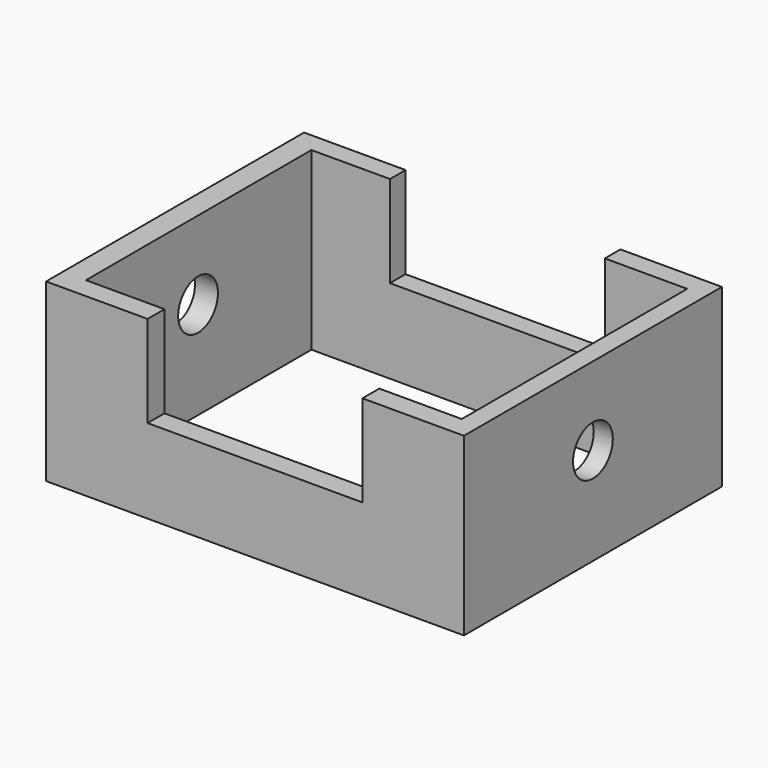
from build123d import *

# Parameters (mm, degrees)
F0_W     = 213.741392
F0_H     = 164.952264
F1_DEPTH = 89.916
F2_W     = 192.237719
F2_H     = 144.178293
F3_DEPTH = 137.668
F4_W     = 109.89108
F4_H     = 46.888998
F5_DEPTH = 190.246
F6_R     = 12.708744
F7_DEPTH = 299.212


with BuildPart() as f1:
    # F0 (on Top) → F1 (new body)
    with BuildSketch(Plane.XY):
        Rectangle(F0_W, F0_H)
    extrude(amount=F1_DEPTH)

    # F2 (on face) → F3 (cut)
    with BuildSketch(Plane.XY.offset(89.916)):
        with Locations((1.00965, 0.403863)):
            Rectangle(F2_W, F2_H)
    extrude(amount=-F3_DEPTH, mode=Mode.SUBTRACT)

    # F4 (on face) → F5 (cut)
    with BuildSketch(Plane.XZ.offset(82.476132)):
        with Locations((0, 66.471501)):
            Rectangle(F4_W, F4_H)
    extrude(amount=-F5_DEPTH, mode=Mode.SUBTRACT)

    # F6 (on face) → F7 (cut)
    with BuildSketch(Plane.YZ.offset(106.870696)):
        with Locations((0, 49.824677)):
            Circle(F6_R)
    extrude(amount=-F7_DEPTH, mode=Mode.SUBTRACT)


solid = f1.part
